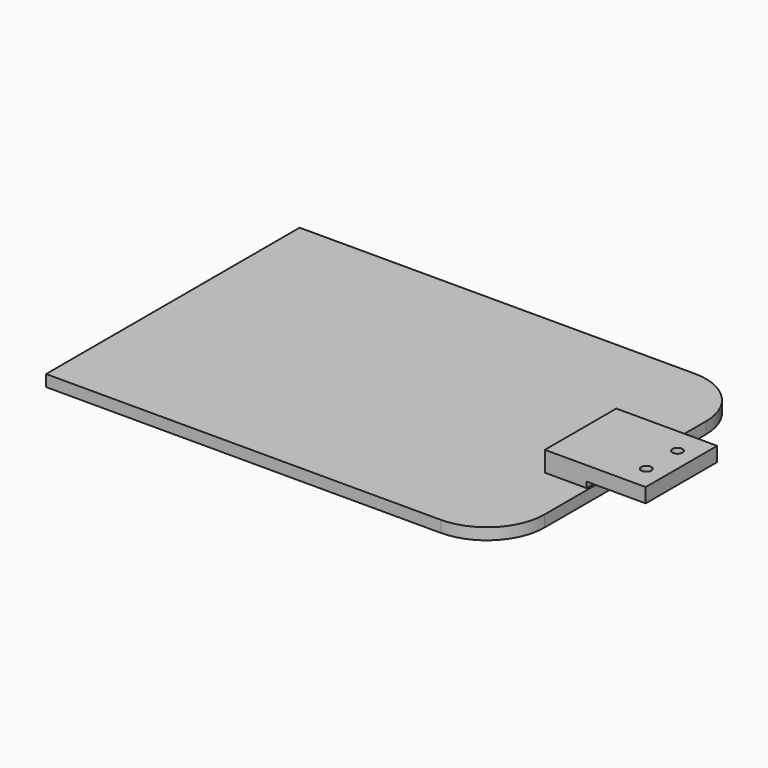
from build123d import *

# Parameters (mm, degrees)
F0_W     = 157
F0_H     = 4
F1_DEPTH = 110
F3_DEPTH = 71
F4_DEPTH = 40
F5_R     = 20
F6_R     = 20
F7_R     = 1.75
F8_DEPTH = 12.5
F9_DEPTH = 12.5


with BuildPart() as f1:
    # F0 (on Front) → F1 (new body)
    with BuildSketch(Plane.XZ):
        Rectangle(F0_W, F0_H)
    extrude(amount=F1_DEPTH)

    # F5
    f5_edges = [f1.edges().sort_by_distance(p)[0] for p in [
        (78.5, -110, 0),
    ]]
    fillet(f5_edges, radius=F5_R)

    # F6
    f6_edges = [f1.edges().sort_by_distance(p)[0] for p in [
        (78.5, 0, 0),
    ]]
    fillet(f6_edges, radius=F6_R)


with BuildPart() as f3:
    # F2 (on Front) → F3 (new body)
    with BuildSketch(Plane.XZ):
        Polygon((63.42411, 9.142857), (63.42411, 2.142857), (77.937506, 2.142857), (77.937506, 4.142857), (98.42411, 4.142857), (98.42411, 9.142857), align=None)
    extrude(amount=F3_DEPTH)

    # F2 (on Front) → F4 (cut)
    with BuildSketch(Plane.XZ):
        Polygon((63.42411, 9.142857), (63.42411, 2.142857), (77.937506, 2.142857), (77.937506, 4.142857), (98.42411, 4.142857), (98.42411, 9.142857), align=None)
    extrude(amount=F4_DEPTH, mode=Mode.SUBTRACT)

    # F7 (on Top) → F8 (join, symmetric)
    with BuildSketch(Plane.XY):
        with Locations((91.847509, -62.51508)):
            Circle(F7_R)
        with Locations((91.847509, -49.01508)):
            Circle(F7_R)
    extrude(amount=F8_DEPTH, both=True)

    # F7 (on Top) → F9 (cut, symmetric)
    with BuildSketch(Plane.XY):
        with Locations((91.847509, -62.51508)):
            Circle(F7_R)
        with Locations((91.847509, -49.01508)):
            Circle(F7_R)
    extrude(amount=F9_DEPTH, both=True, mode=Mode.SUBTRACT)


solid = Compound([f1.part, f3.part])
